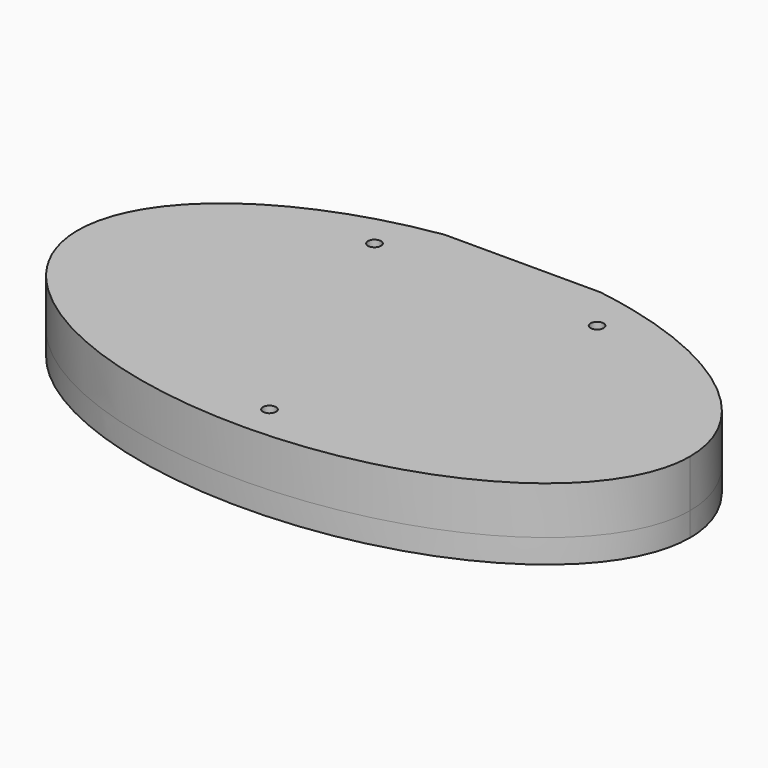
from build123d import *

# Parameters (mm, degrees)
PAD_DEPTH       = 6
POCKET_DEPTH    = 3
PAD001_DEPTH    = 3
SKETCH003_W     = 66
SKETCH003_H     = 2.77
POCKET001_DEPTH = 3
SKETCH004_W     = 19.6
SKETCH004_H     = 1
POCKET002_DEPTH = 9.001
SKETCH005_R     = 0.82
POCKET003_DEPTH = 9.001


with BuildPart() as part:
    # Sketch → Pad (new body)
    with BuildSketch(Plane.XY):
        with BuildLine():
            add(Edge.make_bspline(
                [(38.5, 0), (38.5, 38.971143), (-19.25, 19.485572), (-77, 0), (-19.25, -19.485572), (38.5, -38.971143), (38.5, 0)],
                knots=[0, 0, 0, 2.094395, 2.094395, 4.18879, 4.18879, 6.283185, 6.283185, 6.283185], degree=2, weights=[1, 0.5, 1, 0.5, 1, 0.5, 1]))
        make_face()
    extrude(amount=PAD_DEPTH)

    # Sketch001 (on Face2 of Pad) → Pocket (cut)
    with BuildSketch(Plane(origin=(0, 0, 0), x_dir=(1, 0, 0), z_dir=(0, 0, -1))):
        Polygon((9.55, -3.696801), (9.55, -21.796801), (-9.55, -21.796801), (-9.55, -3.696801), (-33, -3.696801), (-33, 6.303199), (33, 6.303199), (33, -3.696801), align=None)
    extrude(amount=-POCKET_DEPTH, mode=Mode.SUBTRACT)

    # Sketch002 (on Face2 of Pocket) → Pad001 (join)
    with BuildSketch(Plane(origin=(0, 0, 0), x_dir=(1, 0, 0), z_dir=(0, 0, -1))):
        with BuildLine():
            add(Edge.make_bspline(
                [(38.5, 0), (38.5, 38.971143), (-19.25, 19.485572), (-77, 0), (-19.25, -19.485572), (38.5, -38.971143), (38.5, 0)],
                knots=[0, 0, 0, 2.094395, 2.094395, 4.18879, 4.18879, 6.283185, 6.283185, 6.283185], degree=2, weights=[1, 0.5, 1, 0.5, 1, 0.5, 1]))
        make_face()
    extrude(amount=PAD001_DEPTH)

    # Sketch003 (on Face4 of Pad001) → Pocket001 (cut)
    with BuildSketch(Plane(origin=(0, 0, -3), x_dir=(1, 0, 0), z_dir=(0, 0, -1))):
        with Locations((0, 1.303199)):
            Rectangle(SKETCH003_W, SKETCH003_H)
    extrude(amount=-POCKET001_DEPTH, mode=Mode.SUBTRACT)

    # Sketch004 (on Face4 of Pocket001) → Pocket002 (cut, through all)
    with BuildSketch(Plane(origin=(0, 0, -3), x_dir=(1, 0, 0), z_dir=(0, 0, -1))):
        with Locations((0, -22.258868)):
            Rectangle(SKETCH004_W, SKETCH004_H)
    extrude(amount=-POCKET002_DEPTH, mode=Mode.SUBTRACT)

    # Sketch005 (on Face4 of Pocket002) → Pocket003 (cut, through all)
    with BuildSketch(Plane.XY.offset(6)):
        with Locations((-14, 16)):
            Circle(SKETCH005_R)
        with Locations((14, 16)):
            Circle(SKETCH005_R)
        with Locations((0, -18)):
            Circle(SKETCH005_R)
    extrude(amount=-POCKET003_DEPTH, mode=Mode.SUBTRACT)


solid = part.part
